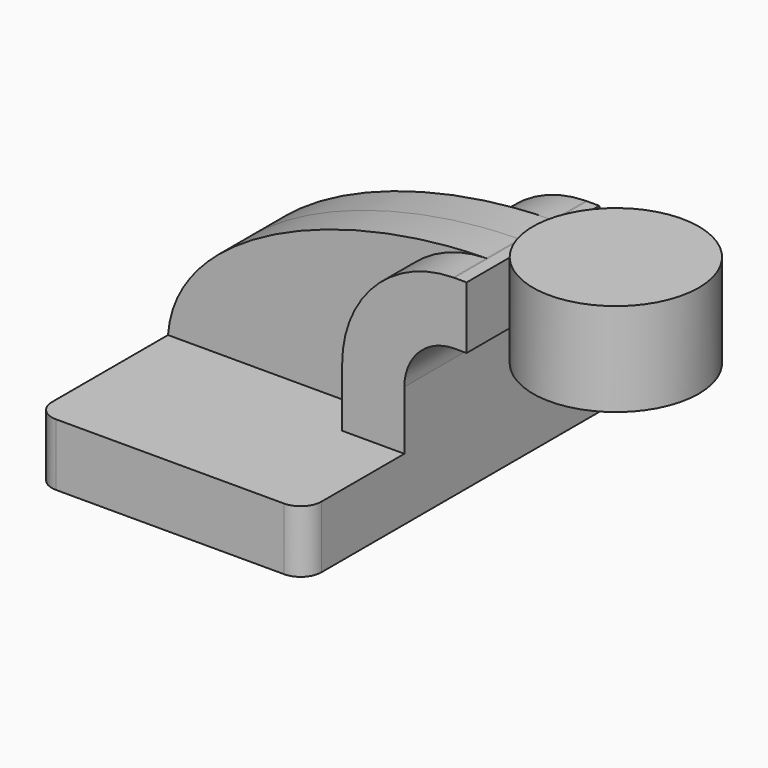
from build123d import *

# Parameters (mm, degrees)
F1_DEPTH = 63.5
F2_DEPTH = 25.4
F3_DEPTH = 12.7
F5_R     = 6.35


with BuildPart() as f1:
    # F0 (on Front) → F1 (new body, symmetric)
    with BuildSketch(Plane.XZ):
        Polygon((22.225, 9.525), (-41.275, 9.525), (-41.275, -9.525), (41.275, -9.525), (41.275, 9.525), align=None)
    extrude(amount=F1_DEPTH, both=True)

    # F0 (on Front) → F2 (join, symmetric)
    with BuildSketch(Plane.XZ):
        with BuildLine():
            Line((22.225, 27.55392), (22.225, 9.525))
            Line((22.225, 9.525), (41.275, 9.525))
            Line((41.275, 9.525), (41.275, 27.55392))
            ThreePointArc((41.275, 27.55392), (45.762499, 38.387701), (56.59628, 42.8752))
            Line((56.59628, 42.8752), (60.325, 42.8752))
            Line((60.325, 42.8752), (60.325, 61.9252))
            Line((60.325, 61.9252), (56.59628, 61.9252))
            add(Edge.make_bspline(
                [(56.229045, 61.923238), (56.351511, 61.924048), (56.473923, 61.924702), (56.59628, 61.9252)],
                knots=[110.70871, 110.70871, 110.70871, 110.70871, 111.016073, 111.016073, 111.016073, 111.016073], degree=3))
            ThreePointArc((56.229045, 61.923238), (32.162623, 51.727899), (22.225, 27.55392))
        make_face()
    extrude(amount=F2_DEPTH, both=True)

    # F0 (on Front) → F3 (join, symmetric)
    with BuildSketch(Plane.XZ):
        with BuildLine():
            add(Edge.make_bspline(
                [(-41.275, 9.525), (-38.990143, 41.170035), (12.118228, 61.631667), (56.229045, 61.923238)],
                knots=[0, 0, 0, 0, 110.70871, 110.70871, 110.70871, 110.70871], degree=3))
            Line((-41.275, 9.525), (22.225, 9.525))
            Line((22.225, 9.525), (22.225, 27.55392))
            ThreePointArc((22.225, 27.55392), (32.162623, 51.727899), (56.229045, 61.923238))
        make_face()
    extrude(amount=F3_DEPTH, both=True)

    # F0 (on Front) → F4 (revolve)
    with BuildSketch(Plane.XZ):
        Polygon((85.725, 66.675), (85.725, 61.9252), (85.725, 42.8752), (85.725, 38.1), (111.125, 38.1), (111.125, 66.675), align=None)
    revolve(axis=Axis((85.725, 0, 52.3875), (0, 0, 1)))

    # F5
    f5_edges = [f1.edges().sort_by_distance(p)[0] for p in [
        (41.275, -63.5, 0),
        (-41.275, -63.5, 0),
        (41.275, 63.5, 0),
        (-41.275, 63.5, 0),
    ]]
    fillet(f5_edges, radius=F5_R)


solid = f1.part
